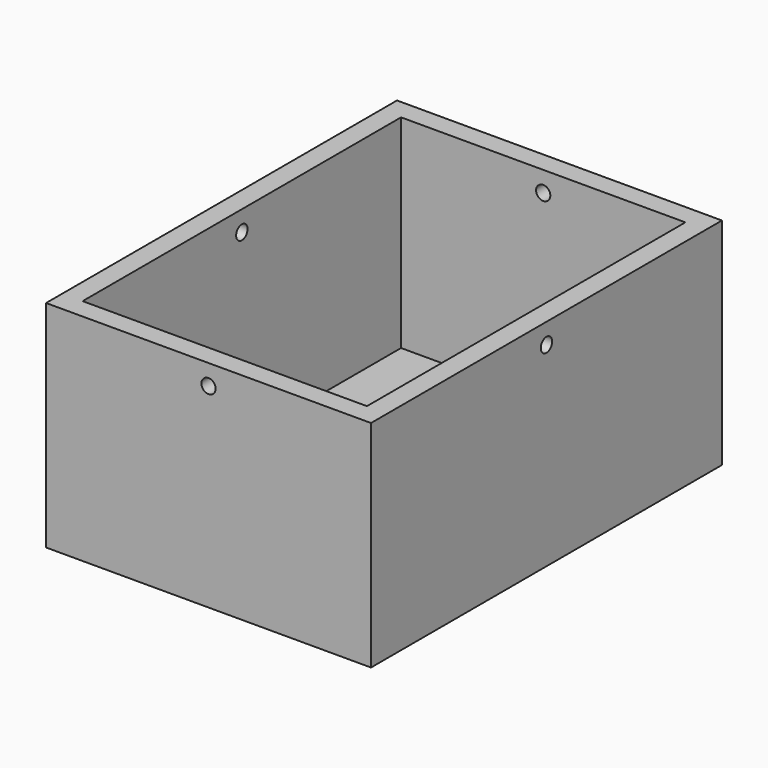
from build123d import *

# Parameters (mm, degrees)
SKETCH_W        = 80
SKETCH_H        = 108
PAD_DEPTH       = 3
SKETCH001_W     = 80
SKETCH001_H     = 108
SKETCH001_W_2   = 70
SKETCH001_H_2   = 98
PAD001_DEPTH    = 50
SKETCH002_R     = 4
POCKET_DEPTH    = 5
SKETCH004_R     = 1.75
POCKET002_DEPTH = 125
SKETCH003_R     = 1.75
POCKET003_DEPTH = 105


with BuildPart() as part:
    # Sketch → Pad (new body)
    with BuildSketch(Plane.XY):
        with Locations((-5, 0)):
            Rectangle(SKETCH_W, SKETCH_H)
    extrude(amount=PAD_DEPTH)

    # Sketch001 → Pad001 (join)
    with BuildSketch(Plane.XY.offset(3)):
        with Locations((-5, 0)):
            Rectangle(SKETCH001_W, SKETCH001_H)
        with Locations((-5, 0)):
            Rectangle(SKETCH001_W_2, SKETCH001_H_2, mode=Mode.SUBTRACT)
    extrude(amount=PAD001_DEPTH)

    # Sketch002 → Pocket (cut)
    with BuildSketch(Plane.XY):
        with Locations((0, -32.139076)):
            Circle(SKETCH002_R)
    extrude(amount=POCKET_DEPTH, mode=Mode.SUBTRACT)

    # Sketch004 → Pocket002 (cut, symmetric)
    with BuildSketch(Plane.XZ.offset(52)):
        with Locations((-5, 48)):
            Circle(SKETCH004_R)
    extrude(amount=POCKET002_DEPTH, both=True, mode=Mode.SUBTRACT)

    # Sketch003 → Pocket003 (cut)
    with BuildSketch(Plane.YZ.offset(46.5)):
        with Locations((0, 48)):
            Circle(SKETCH003_R)
    extrude(amount=-POCKET003_DEPTH, mode=Mode.SUBTRACT)


solid = part.part
